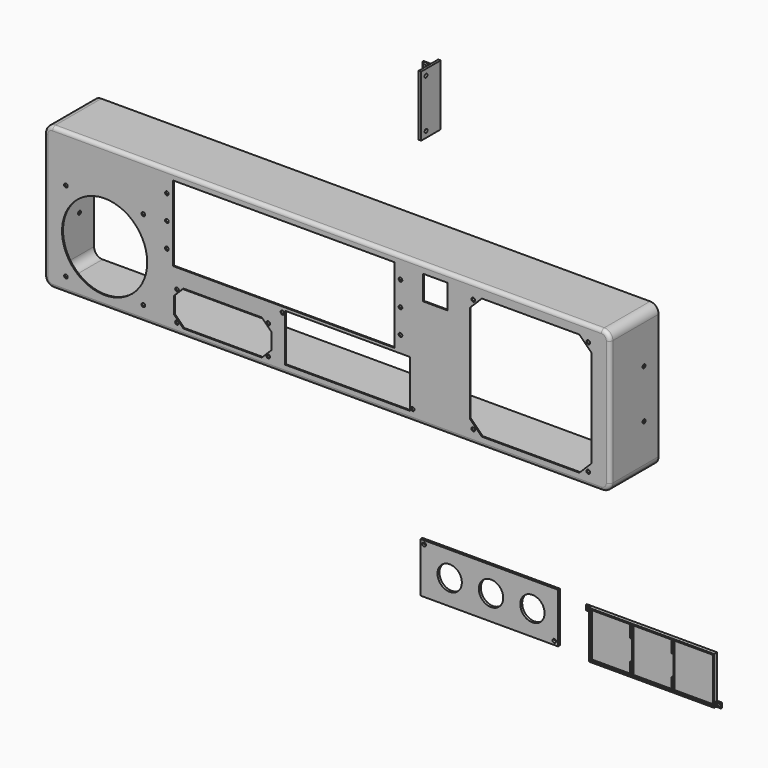
from build123d import *

# Parameters (mm, degrees)
F0_W            = 465
F0_H            = 117
F1_DEPTH        = 50
F2_T            = -1
F4_R            = 7
F3_W            = 182
F3_H            = 62
F3_W_2          = 20
F3_H_2          = 20
F3_R            = 1.5
F3_W_3          = 93
F3_H_3          = 36
F3_R_2          = 9.5
F3_R_3          = 35
F3_W_4          = 103
F3_H_4          = 39
F5_DEPTH        = 25
F6_R            = 3
F8_R            = 1.5
F9_DEPTH        = 500
F10_W           = 20
F10_H           = 50
F10_R           = 1.5
F11_DEPTH       = 2
F12_W           = 12
F12_H           = 40
F13_DEPTH       = 2
F15_D           = 3
F15_CSINK_D     = 5.7
F15_CSINK_ANGLE = 90
F16_SIZE        = 1
F17_W           = 113
F17_H           = 41
F17_R           = 1.5
F17_R_2         = 10
F18_DEPTH       = 2
F20_DEPTH       = 3
F19_W           = 4
F19_H           = 4
F19_R           = 1.5
F21_DEPTH       = 1
F23_DEPTH       = 2
F22_W           = 1
F22_H           = 17
F24_DEPTH       = 3


with BuildPart() as f1:
    # F0 (on Front) → F1 (new body)
    with BuildSketch(Plane.XZ):
        with Locations((-12.6529467106, 27.1878533959)):
            Rectangle(F0_W, F0_H)
        with Locations((-12.6529467106, 27.1878533959)):
            Rectangle(F0_W, F0_H)
    extrude(amount=F1_DEPTH)

    # F2
    f2_openings = [f1.faces().sort_by_distance(p)[0] for p in [
        (-12.652947, 0, 27.187853),
    ]]
    offset(amount=F2_T, openings=f2_openings)

    # F4
    f4_edges = [f1.edges().sort_by_distance(p)[0] for p in [
        (-245.152947, -25, 85.687853),
        (219.847053, -25, 85.687853),
        (219.847053, -25, -31.312147),
        (-245.152947, -25, -31.312147),
        (-244.152947, -24.5, 84.687853),
        (-244.152947, -24.5, -30.312147),
        (218.847053, -24.5, -30.312147),
        (218.847053, -24.5, 84.687853),
    ]]
    fillet(f4_edges, radius=F4_R)

    # F3 (on face) → F5 (cut)
    with BuildSketch(Plane.XZ.offset(50)):
        with Locations((-48.312419115, 48.0203691069)):
            Rectangle(F3_W, F3_H)
        with Locations((76.3836680665, 68.3190373614)):
            Rectangle(F3_W_2, F3_H_2)
        Polygon((194.7213235501, 76.111191912), (114.5203134233, 76.111191912), (104.6208184867, 66.2116969754), (104.6208184867, -13.9893131514), (114.5203134233, -23.888808088), (194.7213235501, -23.888808088), (204.6208184867, -13.9893131514), (204.6208184867, 66.2116969754), align=None)
        with Locations((47.687580885, 68.0203691069)):
            Circle(F3_R)
        with Locations((47.687580885, 48.0203691069)):
            Circle(F3_R)
        with Locations((47.687580885, 28.0203691069)):
            Circle(F3_R)
        with Locations((107.5167332374, 72.8625404379)):
            Circle(F3_R)
        with Locations((80.878779198, -82.3583360478)):
            Rectangle(F3_W_3, F3_H_3)
        with Locations((51.3206828289, -84.0745766136)):
            Circle(F3_R_2, mode=Mode.SUBTRACT)
        with Locations((81.3476530956, -84.0745766136)):
            Circle(F3_R_2, mode=Mode.SUBTRACT)
        with Locations((38.378779198, -68.3583360478)):
            Circle(F3_R, mode=Mode.SUBTRACT)
        with Locations((123.378779198, -96.3583360478)):
            Circle(F3_R, mode=Mode.SUBTRACT)
        with Locations((110.7360261029, -84.0745766136)):
            Circle(F3_R_2, mode=Mode.SUBTRACT)
        Polygon((-66.2842570873, 3.6055132091), (-130.7279079012, 3.6055132091), (-138.5060824942, -4.172661384), (-138.5060824942, -17.6163121979), (-130.7279079012, -25.3944867909), (-66.2842570873, -25.3944867909), (-58.5060824942, -17.6163121979), (-58.5060824942, -4.172661384), align=None)
        with Locations((-136.0060824942, 1.1055132091)):
            Circle(F3_R)
        with Locations((-136.0060824942, -22.8944867909)):
            Circle(F3_R)
        with Locations((-61.0060824942, 1.1055132091)):
            Circle(F3_R)
        with Locations((-61.0060824942, -22.8944867909)):
            Circle(F3_R)
        with Locations((107.5167332374, -20.8455865502)):
            Circle(F3_R)
        with Locations((202.0370356229, -20.8455660029)):
            Circle(F3_R)
        with Locations((202.0370356229, 72.8625404379)):
            Circle(F3_R)
        with Locations((-195.4793932134, 12.7347313118)):
            Circle(F3_R_3)
        with Locations((-144.312419115, 68.0203691069)):
            Circle(F3_R)
        with Locations((-144.312419115, 48.0203691069)):
            Circle(F3_R)
        with Locations((-144.312419115, 28.0203691069)):
            Circle(F3_R)
        with Locations((-227.2830040105, 46.6578847659)):
            Circle(F3_R)
        with Locations((-227.2830040105, -19.1012599602)):
            Circle(F3_R)
        with Locations((-163.6415483004, -19.1012599602)):
            Circle(F3_R)
        with Locations((-163.6757824164, 46.6578847659)):
            Circle(F3_R)
        with Locations((-49.3271809206, 12.611191912)):
            Circle(F3_R)
        with Locations((57.6728190794, -22.388808088)):
            Circle(F3_R)
        with Locations((4.1728190794, -4.888808088)):
            Rectangle(F3_W_4, F3_H_4)
    extrude(amount=-F5_DEPTH, mode=Mode.SUBTRACT)

    # F6
    f6_edges = [f1.edges().sort_by_distance(p)[0] for p in [
        (217.796801, -50, 83.637601),
    ]]
    fillet(f6_edges, radius=F6_R)

    # F8 (on face) → F9 (cut)
    with BuildSketch(Plane(origin=(-245.1529467106, 0, 0), x_dir=(0, -1, 0), z_dir=(-1, 0, 0))):
        with Locations((15, 47.1878533959)):
            Circle(F8_R)
        with Locations((15, 7.1878533959)):
            Circle(F8_R)
    extrude(amount=-F9_DEPTH, mode=Mode.SUBTRACT)


with BuildPart() as f11:
    # F10 (on Right) → F11 (new body)
    with BuildSketch(Plane.YZ):
        with Locations((38.3660052121, 146.8174463511)):
            Rectangle(F10_W, F10_H)
        with Locations((33.3660052121, 126.8174463511)):
            Circle(F10_R, mode=Mode.SUBTRACT)
        with Locations((33.3660052121, 166.8174463511)):
            Circle(F10_R, mode=Mode.SUBTRACT)
    extrude(amount=F11_DEPTH)

    # F12 (on face) → F13 (join)
    with BuildSketch(Plane(origin=(0, 48.3660052121, 0), x_dir=(-1, 0, 0), z_dir=(0, 1, 0))):
        with Locations((6, 146.8174463511)):
            Rectangle(F12_W, F12_H)
    extrude(amount=-F13_DEPTH)

    # F15 (through all)
    with Locations(Plane.XZ.offset(-46.3660052121)):
        with Locations((-7, 156.8174463511), (-7, 136.8174463511)):
            CounterSinkHole(F15_D / 2, F15_CSINK_D / 2, counter_sink_angle=F15_CSINK_ANGLE)

    # F16
    f16_edges = [f11.edges().sort_by_distance(p)[0] for p in [
        (-6, 46.366005, 166.817446),
        (-12, 46.366005, 146.817446),
        (-6, 46.366005, 126.817446),
    ]]
    chamfer(f16_edges, length=F16_SIZE)


with BuildPart() as f18:
    # F17 (on Front) → F18 (new body)
    with BuildSketch(Plane.XZ):
        with Locations((82.2173821926, -166.7715502977)):
            Rectangle(F17_W, F17_H)
        with Locations((135.7173821926, -184.2715502977)):
            Circle(F17_R, mode=Mode.SUBTRACT)
        with Locations((49.7173821926, -166.7715502977)):
            Circle(F17_R_2, mode=Mode.SUBTRACT)
        with Locations((28.7173821926, -149.2715502977)):
            Circle(F17_R, mode=Mode.SUBTRACT)
        with Locations((83.7173821926, -166.7715502977)):
            Circle(F17_R_2, mode=Mode.SUBTRACT)
        with Locations((117.7173821926, -166.7715502977)):
            Circle(F17_R_2, mode=Mode.SUBTRACT)
    extrude(amount=F18_DEPTH)


with BuildPart() as f20:
    # F19 (on Front) → F20 (new body)
    with BuildSketch(Plane.XZ):
        Polygon((267.8700156212, -150.314532876), (164.8700156212, -150.314532876), (164.8700156212, -154.314532876), (164.8700156212, -189.314532876), (267.8700156212, -189.314532876), (267.8700156212, -185.314532876), align=None)
    extrude(amount=F20_DEPTH)

    # F19 (on Front) → F21 (join)
    with BuildSketch(Plane.XZ):
        with Locations((162.8700156212, -152.314532876)):
            Rectangle(F19_W, F19_H)
        with Locations((162.8700156212, -152.314532876)):
            Circle(F19_R, mode=Mode.SUBTRACT)
        with Locations((269.8700156212, -187.314532876)):
            Rectangle(F19_W, F19_H)
        with Locations((269.8700156212, -187.314532876)):
            Circle(F19_R, mode=Mode.SUBTRACT)
    extrude(amount=F21_DEPTH)

    # F22 (on face) → F23 (cut)
    with BuildSketch(Plane.XZ.offset(3)):
        Polygon((198.8700156212, -151.314532876), (165.8700156212, -151.314532876), (165.8700156212, -188.314532876), (198.8700156212, -188.314532876), (198.8700156212, -178.314532876), (198.8700156212, -161.314532876), align=None)
        Polygon((199.8700156212, -151.314532876), (199.8700156212, -161.314532876), (199.8700156212, -178.314532876), (199.8700156212, -188.314532876), (232.8700156212, -188.314532876), (232.8700156212, -178.314532876), (232.8700156212, -161.314532876), (232.8700156212, -151.314532876), align=None)
        Polygon((233.8700156212, -151.314532876), (233.8700156212, -161.314532876), (233.8700156212, -178.314532876), (233.8700156212, -188.314532876), (266.8700156212, -188.314532876), (266.8700156212, -151.314532876), align=None)
    extrude(amount=-F23_DEPTH, mode=Mode.SUBTRACT)

    # F22 (on face) → F24 (cut)
    with BuildSketch(Plane.XZ.offset(3)):
        with Locations((199.3700156212, -169.814532876)):
            Rectangle(F22_W, F22_H)
        with Locations((233.3700156212, -169.814532876)):
            Rectangle(F22_W, F22_H)
    extrude(amount=-F24_DEPTH, mode=Mode.SUBTRACT)


solid = Compound([f1.part, f11.part, f18.part, f20.part])
